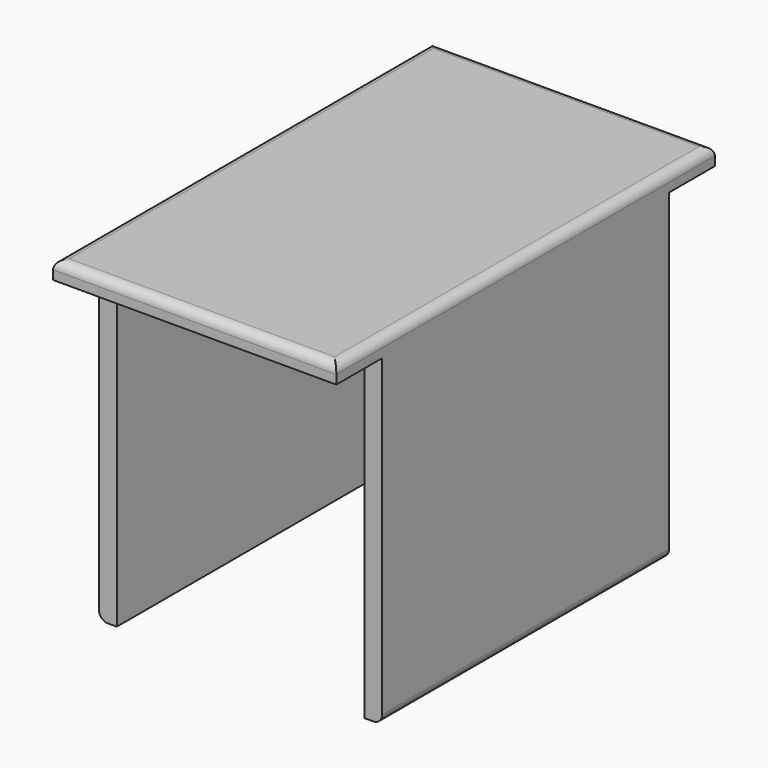
from build123d import *

# Parameters (mm, degrees)
SKETCH006_W  = 10
SKETCH006_H  = 9.5
PAD002_DEPTH = 0.5
SKETCH007_W  = 7.9
SKETCH007_H  = 13.2
PAD003_DEPTH = 0.5
SKETCH008_W  = 10
SKETCH008_H  = 9.5
PAD004_DEPTH = 0.5
FILLET_R     = 0.25


with BuildPart() as part:
    # Sketch006 → Pad002 (new body)
    with BuildSketch(Plane.YZ.offset(3.95)):
        with Locations((0, 4.75)):
            Rectangle(SKETCH006_W, SKETCH006_H)
    extrude(amount=-PAD002_DEPTH)

    # Sketch007 → Pad003 (join)
    with BuildSketch(Plane.XY.offset(9.5)):
        Rectangle(SKETCH007_W, SKETCH007_H)
    extrude(amount=-PAD003_DEPTH)

    # Sketch008 → Pad004 (join)
    with BuildSketch(Plane.YZ.offset(-3.95)):
        with Locations((0, 4.75)):
            Rectangle(SKETCH008_W, SKETCH008_H)
    extrude(amount=PAD004_DEPTH)

    # Fillet
    fillet_edges = [part.edges().sort_by_distance(p)[0] for p in [
        (3.95, 0, 9.5),
        (0, 6.6, 9.5),
        (-3.95, 0, 9.5),
        (0, -6.6, 9.5),
        (3.95, 0, 0),
        (-3.95, 0, 0),
    ]]
    fillet(fillet_edges, radius=FILLET_R)


solid = part.part
